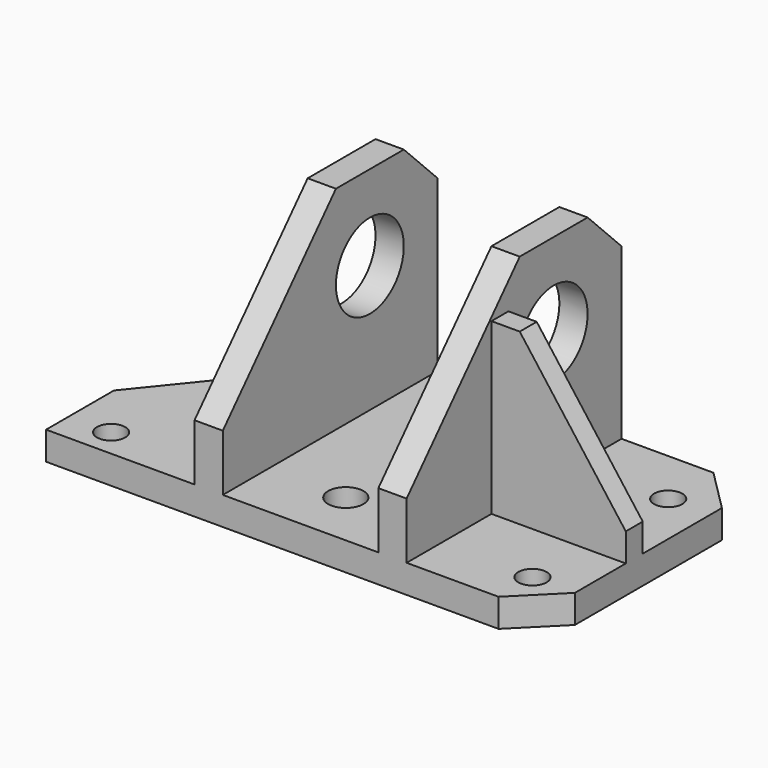
from build123d import *

# Parameters (mm, degrees)
F1_DEPTH = 12.7
F2_R     = 6.35
F2_R_2   = 7.9375
F3_DEPTH = 12.701
F2_W     = 60.325
F2_H     = 9.525
F4_DEPTH = 76.2
F2_W_2   = 12.7
F2_H_2   = 120.65
F5_DEPTH = 95.25
F7_DEPTH = 73.026
F8_R     = 19.05
F9_DEPTH = 155.576


with BuildPart() as f1:
    # F0 (on Top) → F1 (new body)
    with BuildSketch(Plane.XY):
        Polygon((-31.017524, 104.0074), (-97.692524, 21.4574), (-97.692524, -16.6426), (105.507476, -16.6426), (124.557476, 2.4074), (124.557476, 84.9574), (105.507476, 104.0074), align=None)
    extrude(amount=F1_DEPTH)

    # F2 (on face) → F3 (cut, through all)
    with BuildSketch(Plane.XY.offset(12.7)):
        with Locations((-78.642524, -3.9426)):
            Circle(F2_R)
        with Locations((16.607476, 8.7574)):
            Circle(F2_R_2)
        with Locations((16.607476, 84.9574)):
            Circle(F2_R_2)
        with Locations((105.507476, 2.4074)):
            Circle(F2_R)
        with Locations((105.507476, 78.6074)):
            Circle(F2_R)
    extrude(amount=-F3_DEPTH, mode=Mode.SUBTRACT)

    # F2 (on face) → F4 (join)
    with BuildSketch(Plane.XY.offset(12.7)):
        with Locations((94.394976, 35.7449)):
            Rectangle(F2_W, F2_H)
    extrude(amount=F4_DEPTH)

    # F2 (on face) → F5 (join)
    with BuildSketch(Plane.XY.offset(12.7)):
        Polygon((64.232476, 104.0074), (51.532476, 104.0074), (51.532476, -16.6426), (64.232476, -16.6426), (64.232476, 30.9824), (64.232476, 40.5074), align=None)
        with Locations((-24.667524, 43.6824)):
            Rectangle(F2_W_2, F2_H_2)
    extrude(amount=F5_DEPTH)

    # F6 (on face) → F7 (cut, through all)
    with BuildSketch(Plane.XZ.offset(-30.9824)):
        Polygon((124.557476, 88.9), (76.932476, 88.9), (124.557476, 25.4), align=None)
    extrude(amount=-F7_DEPTH, mode=Mode.SUBTRACT)

    # F8 (on face) → F9 (cut, through all)
    with BuildSketch(Plane(origin=(-31.017524, 0, 0), x_dir=(0, -1, 0), z_dir=(-1, 0, 0))):
        Polygon((16.6426, 107.95), (-46.8574, 107.95), (16.6426, 38.1), align=None)
        Polygon((-104.0074, 107.95), (-104.0074, 88.820867), (-84.9574, 107.95), align=None)
        with Locations((-65.9074, 69.770867)):
            Circle(F8_R)
    extrude(amount=-F9_DEPTH, mode=Mode.SUBTRACT)


solid = f1.part
